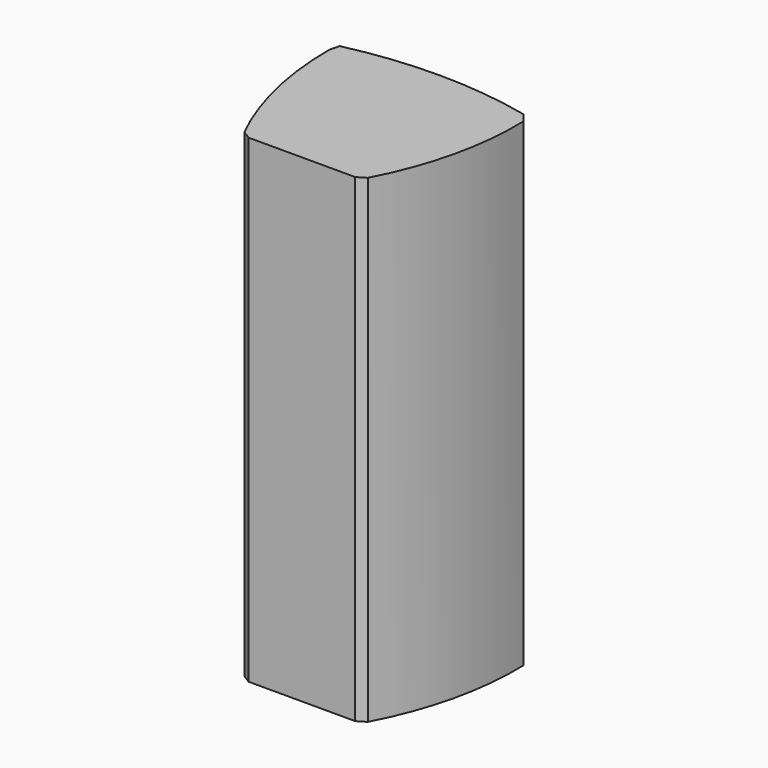
from build123d import *

# Parameters (mm, degrees)
F1_DEPTH = 100


with BuildPart() as f1:
    # F0 (on Top) → F1 (new body)
    with BuildSketch(Plane.XY):
        with BuildLine():
            Line((20.24916, 30.557973), (18.683154, 32.452531))
            ThreePointArc((18.683154, 32.452531), (-0.526402, 34.65267), (-19.74347, 32.519136))
            Line((-19.74347, 32.519136), (-20.249992, 30.505758))
            ThreePointArc((-20.249992, 30.505758), (-18.414901, 14.379255), (-12.91545, -0.89123))
            Line((-12.91545, -0.89123), (-11.125, -2))
            Line((-11.125, -2), (0, -2))
            Line((0, -2), (11.125, -2))
            Line((11.125, -2), (12.89157, -0.937672))
            ThreePointArc((12.89157, -0.937672), (18.617034, 14.332035), (20.24916, 30.557973))
        make_face()
        with BuildLine():
            Line((11.125, 0), (0, 0))
            Line((0, 0), (-11.125, 0))
            ThreePointArc((-11.125, 0), (-16.501317, 14.980406), (-18.248473, 30.800166))
            ThreePointArc((-18.248473, 30.800166), (0.017215, 32.649949), (18.250002, 30.499932))
            ThreePointArc((18.250002, 30.499932), (16.669461, 14.786966), (11.125, 0))
        make_face(mode=Mode.SUBTRACT)
        with BuildLine():
            Line((-11.125, 0), (0, 0))
            Line((0, 0), (11.125, 0))
            ThreePointArc((11.125, 0), (16.669461, 14.786966), (18.250002, 30.499932))
            ThreePointArc((18.250002, 30.499932), (0.017215, 32.649949), (-18.248473, 30.800166))
            ThreePointArc((-18.248473, 30.800166), (-16.501317, 14.980406), (-11.125, 0))
        make_face()
    extrude(amount=F1_DEPTH)


solid = f1.part
